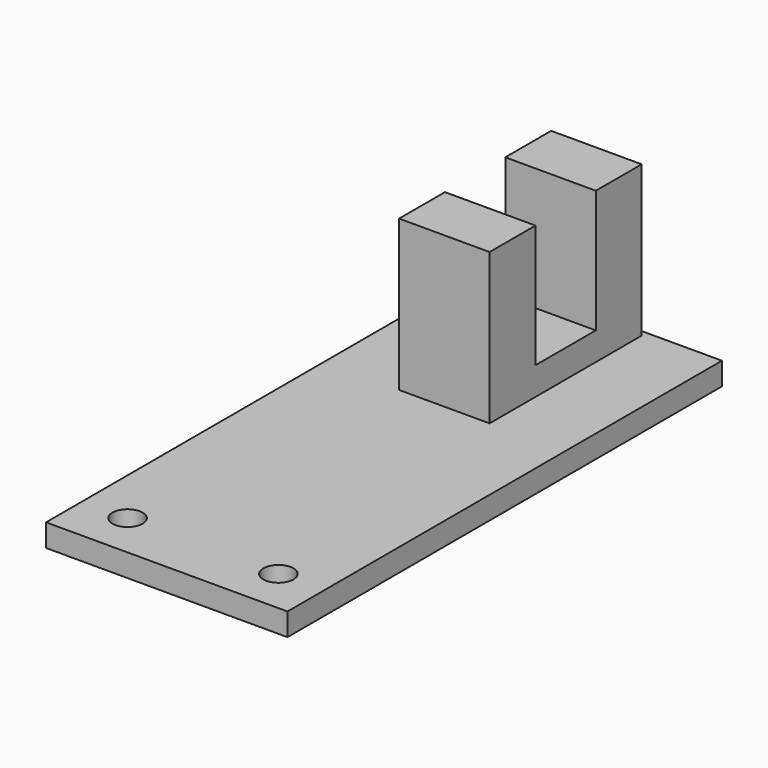
from build123d import *

# Parameters (mm, degrees)
CYLINDER1054_R           = 1
CYLINDER1054_DEPTH       = 5
CYLINDER1055_R           = 1
CYLINDER1055_DEPTH       = 5
BOX258_W                 = 36
BOX258_H                 = 16
BOX258_DEPTH             = 1.5
PAD042_DEPTH             = 3
CLONE020_PLACEMENT_ANGLE = -90


with BuildPart() as cylinder1062:
    # Cylinder1054 → Cylinder1054 (new body)
    with BuildSketch(Plane(origin=(33, 3, 0), x_dir=(1, 0, 0), z_dir=(0, 0, 1))):
        Circle(CYLINDER1054_R)
    extrude(amount=CYLINDER1054_DEPTH)


with BuildPart() as fusion151:
    # Cylinder1055 → Cylinder1055 (new body)
    with BuildSketch(Plane(origin=(33, 13, 0), x_dir=(1, 0, 0), z_dir=(0, 0, 1))):
        Circle(CYLINDER1055_R)
    extrude(amount=CYLINDER1055_DEPTH)

    # Fusion151: union Cylinder1062
    add(cylinder1062.part)


with BuildPart() as cut:
    # Box258 → Box258 (new body)
    with BuildSketch(Plane.XY):
        with Locations((18, 8)):
            Rectangle(BOX258_W, BOX258_H)
    extrude(amount=BOX258_DEPTH)

    # Cut: cut Fusion151
    add(fusion151.part, mode=Mode.SUBTRACT)


with BuildPart() as obj1:
    # Sketch067 → Pad042 (new body, symmetric)
    with BuildSketch(Plane(origin=(13, 8, 1.5), x_dir=(0, 0, 1), z_dir=(0, -1, 0))):
        Polygon((0, 0), (10, 0), (10, 3.8), (1.85, 3.8), (1.85, 8.8), (10, 8.8), (10, 12.6), (0, 12.6), align=None)
    extrude(amount=PAD042_DEPTH, both=True)

    # Fusion152: union Cut
    add(cut.part)


with BuildPart() as obj1_1:
    # Clone020 placement: moved
    add(obj1.part.moved(Location((-8, 61.0689, 46.1))).rotate(Axis((-8, 61.0689, 46.1), (0, 0, 1)), CLONE020_PLACEMENT_ANGLE))


solid = obj1_1.part
